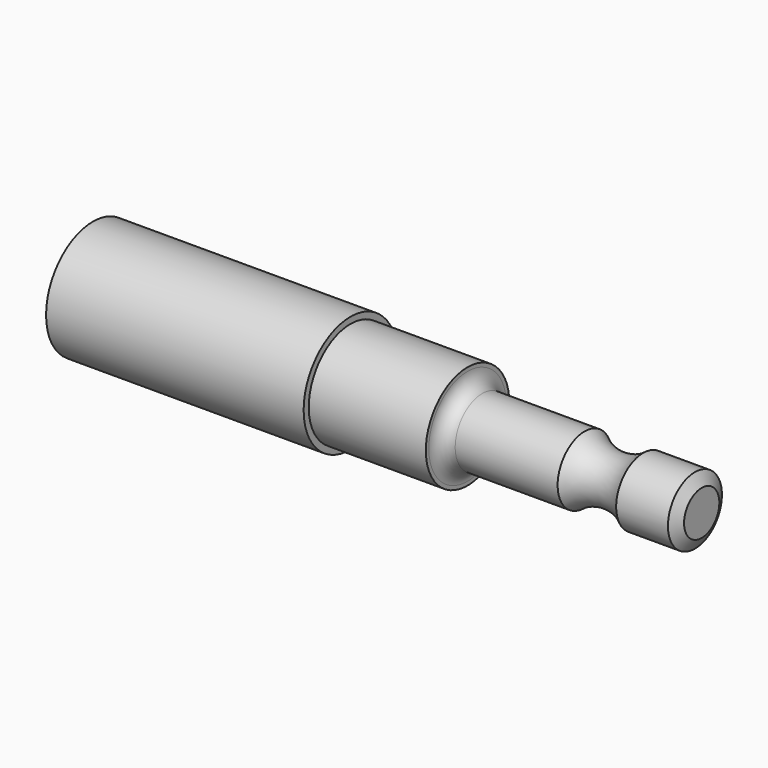
from build123d import *

# Parameters (mm, degrees)
F2_R     = 6.35
F3_DEPTH = 27.94


with BuildPart() as f1:
    # F0 (on Front) → F1 (revolve)
    with BuildSketch(Plane.XZ):
        with BuildLine():
            Line((0, 2.39141), (-0.7332348419, 3.66141))
            Line((-0.7332348419, 3.66141), (-6.35, 3.66141))
            ThreePointArc((-6.35, 3.66141), (-9.525, 2.54), (-12.7, 3.66141))
            Line((-12.7, 3.66141), (-23.8125, 3.66141))
            ThreePointArc((-23.8125, 3.66141), (-24.9350320151, 4.1263779849), (-25.4, 5.24891))
            Line((-25.4, 5.24891), (-25.4, 5.65658))
            Line((-25.4, 5.65658), (-38.1, 5.65658))
            Line((-38.1, 5.65658), (-38.1, 0))
            Line((-38.1, 0), (0, 0))
            Line((0, 0), (0, 2.39141))
        make_face()
    revolve(axis=Axis((-19.05, 0, 0), (-1, 0, 0)))


with BuildPart() as f3:
    # F2 (on face) → F3 (new body)
    with BuildSketch(Plane(origin=(-38.1, 0, 0), x_dir=(0, -1, 0), z_dir=(-1, 0, 0))):
        Circle(F2_R)
    extrude(amount=F3_DEPTH)


solid = Compound([f1.part, f3.part])
